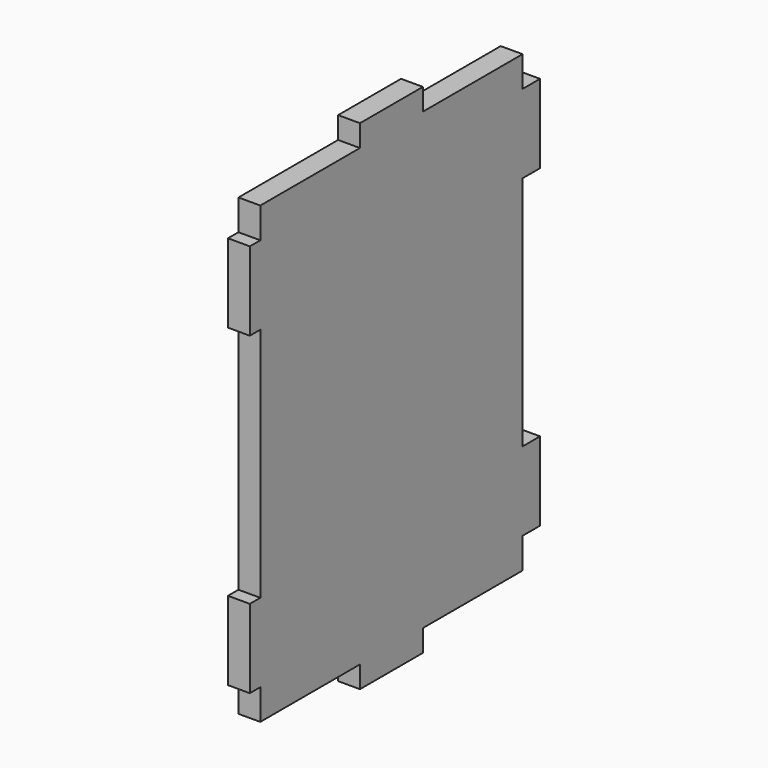
from build123d import *

# Parameters (mm, degrees)
F1_DEPTH = 5


with BuildPart() as f1:
    # F0 (on Right) → F1 (new body)
    with BuildSketch(Plane.YZ):
        Polygon((37.5, 45), (37.5, 52), (9, 52), (9, 57), (-9, 57), (-9, 52), (-37.5, 52), (-37.5, 45), (-40.5, 45), (-40.5, 27), (-37.5, 27), (-37.5, -27), (-40.5, -27), (-40.5, -45), (-37.5, -45), (-37.5, -52), (-9, -52), (-9, -57), (9, -57), (9, -52), (37.5, -52), (37.5, -45), (42.5, -45), (42.5, -27), (37.5, -27), (37.5, 27), (42.5, 27), (42.5, 45), align=None)
    extrude(amount=F1_DEPTH)


solid = f1.part
